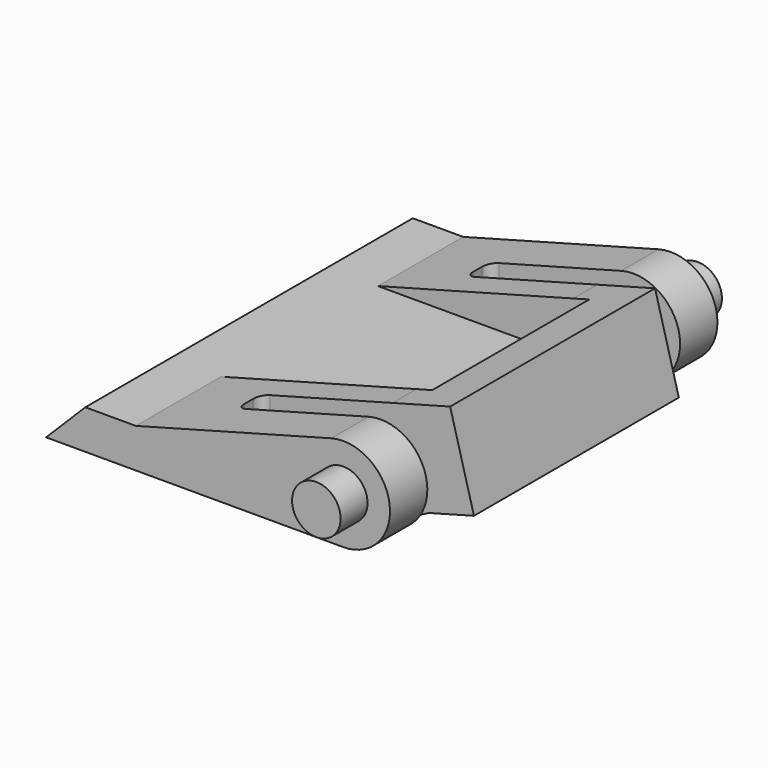
from build123d import *

# Parameters (mm, degrees)
F1_DEPTH  = 10.95
F2_R      = 1.3
F3_DEPTH  = 1.8
F6_DEPTH  = 5.001
F8_DEPTH  = 13.702198
F9_W      = 11.3
F9_H      = 10.5
F10_DEPTH = 3.647076


with BuildPart() as f1:
    # F0 (on Front) → F1 (new body, symmetric)
    with BuildSketch(Plane.XZ):
        with BuildLine():
            Line((-8.737945, 2.1), (-10.837945, 0))
            Line((-10.837945, 0), (5.062055, 0))
            ThreePointArc((5.062055, 0), (7.540463, 2.827859), (4.412, 4.914007))
            Line((4.412, 4.914007), (-6.037945, 2.1))
            Line((-6.037945, 2.1), (-8.737945, 2.1))
        make_face()
    extrude(amount=F1_DEPTH, both=True)

    # F2 (on face) → F3 (join)
    with BuildSketch(Plane.XZ.offset(10.95)):
        with Locations((5.062055, 2.5)):
            Circle(F2_R)
    extrude(amount=F3_DEPTH)

    # F4: F1 across plane


with BuildPart() as f1_1:
    add(f1.part)
    add(f1.part.mirror(Plane.XZ))

    # F5 (on Top) → F6 (cut, through all)
    with BuildSketch(Plane.XY):
        with BuildLine():
            Line((9.362055, 8.451099), (-2.137945, 8.451099))
            ThreePointArc((-2.137945, 8.451099), (-2.491499, 8.304652), (-2.637945, 7.951099))
            Line((-2.637945, 7.951099), (-2.637945, 7.351099))
            ThreePointArc((-2.637945, 7.351099), (-2.491499, 6.997546), (-2.137945, 6.851099))
            Line((-2.137945, 6.851099), (9.362055, 6.851099))
            Line((9.362055, 6.851099), (9.362055, 8.451099))
        make_face()
        with BuildLine():
            Line((9.362055, -8.451099), (9.362055, -6.851099))
            Line((9.362055, -6.851099), (-2.137945, -6.851099))
            ThreePointArc((-2.137945, -6.851099), (-2.491499, -6.997546), (-2.637945, -7.351099))
            Line((-2.637945, -7.351099), (-2.637945, -7.951099))
            ThreePointArc((-2.637945, -7.951099), (-2.491499, -8.304652), (-2.137945, -8.451099))
            Line((-2.137945, -8.451099), (9.362055, -8.451099))
        make_face()
    extrude(amount=F6_DEPTH, mode=Mode.SUBTRACT)

    # F7 (on face) → F8 (join, through all)
    with BuildSketch(Plane.XZ.offset(6.851099)):
        with BuildLine():
            Line((7.501929, 5.746076), (4.412, 4.914007))
            ThreePointArc((4.412, 4.914007), (7.359868, 3.484913), (6.362029, 0.364569))
            Line((6.362029, 0.364569), (8.776036, 1.014623))
            Line((8.776036, 1.014623), (7.501929, 5.746076))
        make_face()
    extrude(amount=-F8_DEPTH)

    # F9 (on face) → F10 (cut, through all)
    with BuildSketch(Plane.XY.offset(2.1)):
        with Locations((-0.387945, 0)):
            Rectangle(F9_W, F9_H)
    extrude(amount=F10_DEPTH, mode=Mode.SUBTRACT)


solid = f1_1.part
